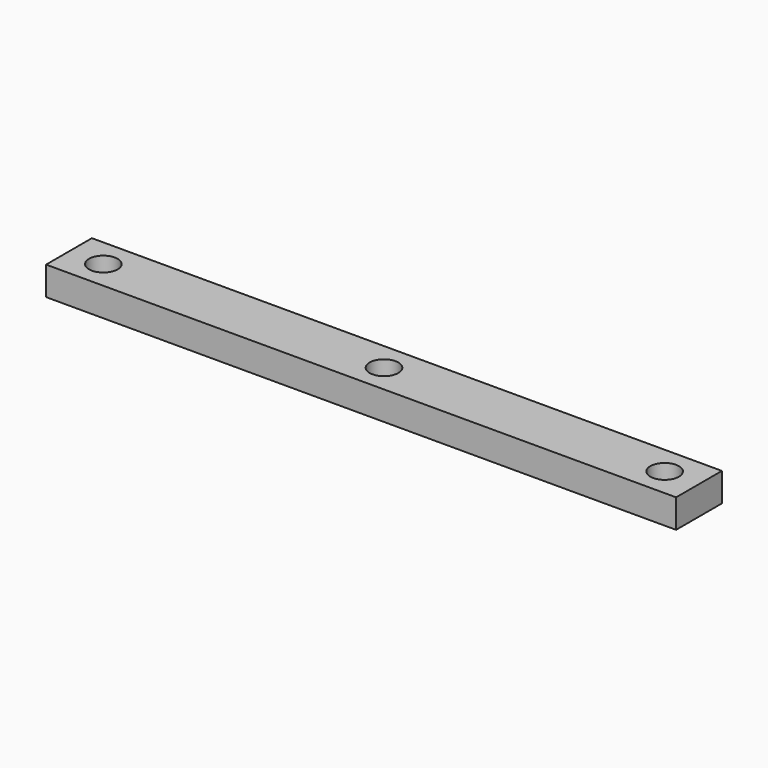
from build123d import *

# Parameters (mm, degrees)
CYLINDER_R        = 5
CYLINDER_DEPTH    = 10
CYLINDER004_R     = 5
CYLINDER004_DEPTH = 10
CYLINDER005_R     = 5
CYLINDER005_DEPTH = 10
BOX002_W          = 220
BOX002_H          = 20
BOX002_DEPTH      = 10


with BuildPart() as cilindro:
    # Cylinder → Cylinder (new body)
    with BuildSketch(Plane.XY):
        Circle(CYLINDER_R)
    extrude(amount=CYLINDER_DEPTH)


with BuildPart() as cilindro004:
    # Cylinder004 → Cylinder004 (new body)
    with BuildSketch(Plane(origin=(-98, 0, 4), x_dir=(1, 0, 0), z_dir=(0, 0, 1))):
        Circle(CYLINDER004_R)
    extrude(amount=CYLINDER004_DEPTH)


with BuildPart() as cilindro005:
    # Cylinder005 → Cylinder005 (new body)
    with BuildSketch(Plane(origin=(98, 0, 4), x_dir=(1, 0, 0), z_dir=(0, 0, 1))):
        Circle(CYLINDER005_R)
    extrude(amount=CYLINDER005_DEPTH)


with BuildPart() as obj1:
    # Box002 → Box002 (new body)
    with BuildSketch(Plane(origin=(-110, -10, 0), x_dir=(1, 0, 0), z_dir=(0, 0, 1))):
        with Locations((110, 10)):
            Rectangle(BOX002_W, BOX002_H)
    extrude(amount=BOX002_DEPTH)

    # Cut004: cut Cilindro005
    add(cilindro005.part, mode=Mode.SUBTRACT)

    # Cut005: cut Cilindro004
    add(cilindro004.part, mode=Mode.SUBTRACT)

    # Cut: cut Cilindro
    add(cilindro.part, mode=Mode.SUBTRACT)


solid = obj1.part
